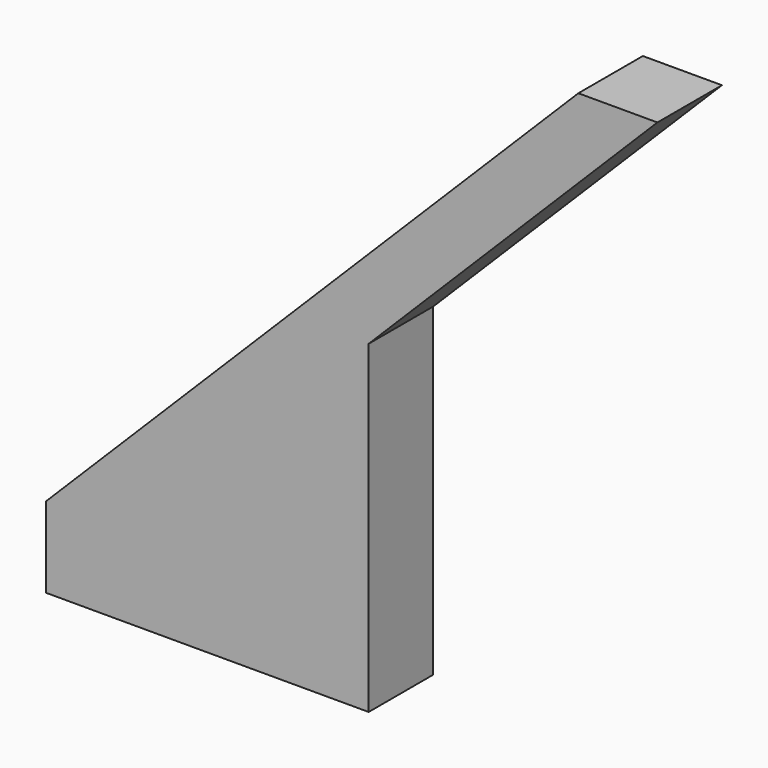
from build123d import *

# Parameters (mm, degrees)
F1_DEPTH = 9.525


with BuildPart() as f1:
    # F0 (on Front) → F1 (new body)
    with BuildSketch(Plane.XZ):
        Polygon((62.861793, 62.861793), (0, 0), (9.338706, 0), (38.1, 28.761294), (72.200499, 62.861793), align=None)
        Polygon((9.338706, 0), (0, 0), (0, -9.525), (38.1, -9.525), (38.1, 0), align=None)
        Polygon((38.1, 28.761294), (9.338706, 0), (38.1, 0), align=None)
    extrude(amount=F1_DEPTH)


solid = f1.part
